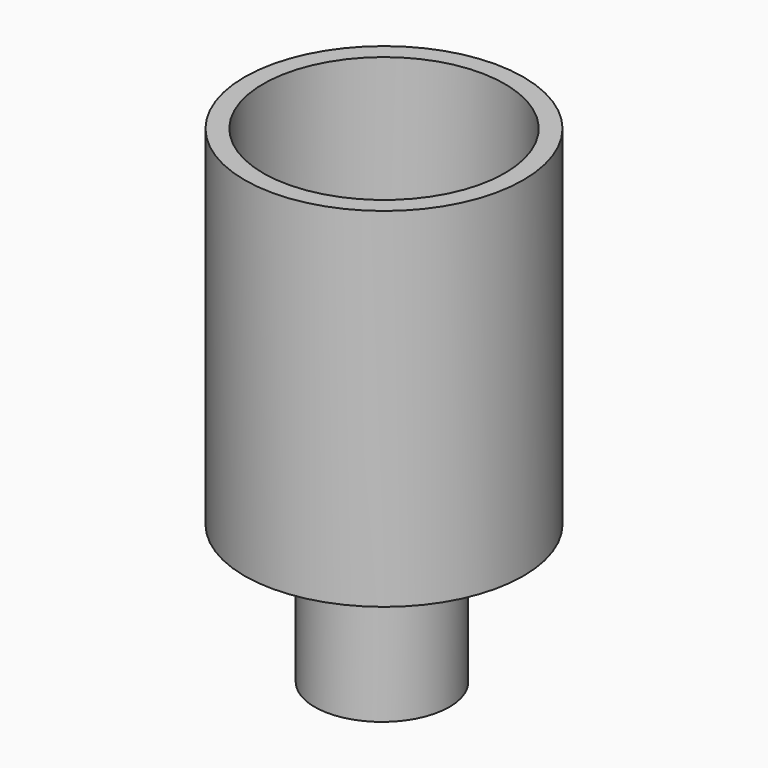
from build123d import *

# Parameters (mm, degrees)
F0_R     = 7.25
F0_R_2   = 5.25
F1_DEPTH = 15
F2_R     = 15
F2_R_2   = 5.25
F3_DEPTH = 3
F4_R     = 15
F4_R_2   = 13
F5_DEPTH = 34.5


with BuildPart() as f1:
    # F0 (on Top) → F1 (new body)
    with BuildSketch(Plane.XY):
        Circle(F0_R)
        Circle(F0_R_2, mode=Mode.SUBTRACT)
    extrude(amount=-F1_DEPTH)

    # F2 (on face) → F3 (join)
    with BuildSketch(Plane.XY):
        with Locations((0.214589, 0)):
            Circle(F2_R)
        Circle(F2_R_2, mode=Mode.SUBTRACT)
    extrude(amount=F3_DEPTH)

    # F4 (on face) → F5 (join)
    with BuildSketch(Plane.XY.offset(3)):
        with Locations((0.214589, 0)):
            Circle(F4_R)
        with Locations((0.214589, 0)):
            Circle(F4_R_2, mode=Mode.SUBTRACT)
    extrude(amount=F5_DEPTH)


solid = f1.part
